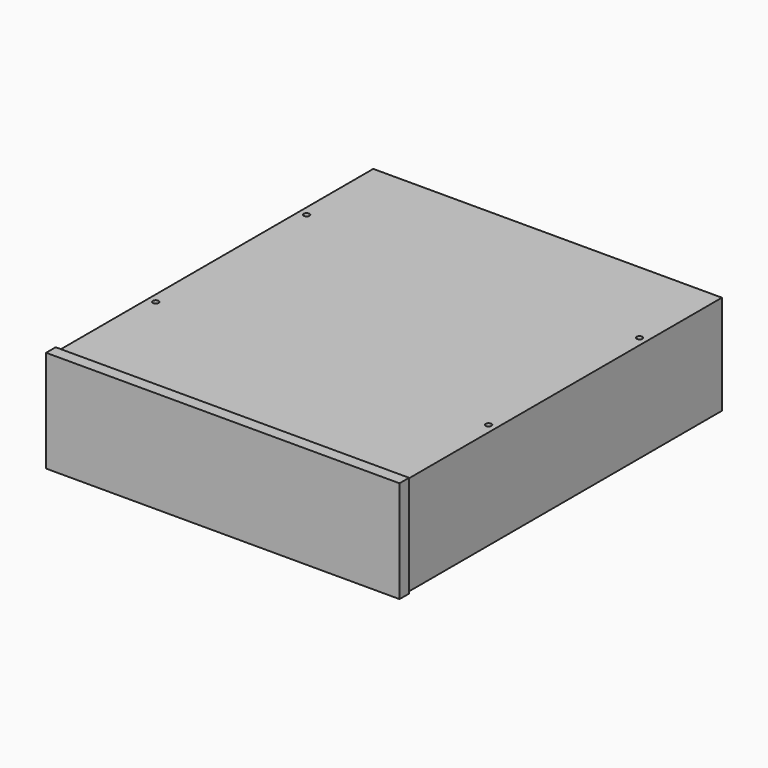
from build123d import *

# Parameters (mm, degrees)
F0_W     = 146
F0_H     = 165
F1_DEPTH = 41.7
F2_W     = 148
F2_H     = 42.7
F3_DEPTH = 5
F5_D     = 2.4
F5_DEPTH = 7.8
F5_TIP   = 0.7210327428


with BuildPart() as f1:
    # F0 (on Top) → F1 (new body)
    with BuildSketch(Plane.XY):
        with Locations((73, 82.5)):
            Rectangle(F0_W, F0_H)
    extrude(amount=F1_DEPTH)

    # F2 (on face) → F3 (join)
    with BuildSketch(Plane.XZ):
        with Locations((73, 21.35)):
            Rectangle(F2_W, F2_H)
    extrude(amount=F3_DEPTH)

    # F5
    with Locations(Plane.XY.offset(41.7)):
        with Locations((3.3, 126), (142.7, 126), (142.7, 47), (3.3, 47)):
            Hole(F5_D / 2, depth=F5_DEPTH)
            with Locations((0, 0, -(F5_DEPTH + F5_TIP / 2))):  # 118° drill point
                Cone(0, F5_D / 2, F5_TIP, mode=Mode.SUBTRACT)


solid = f1.part
